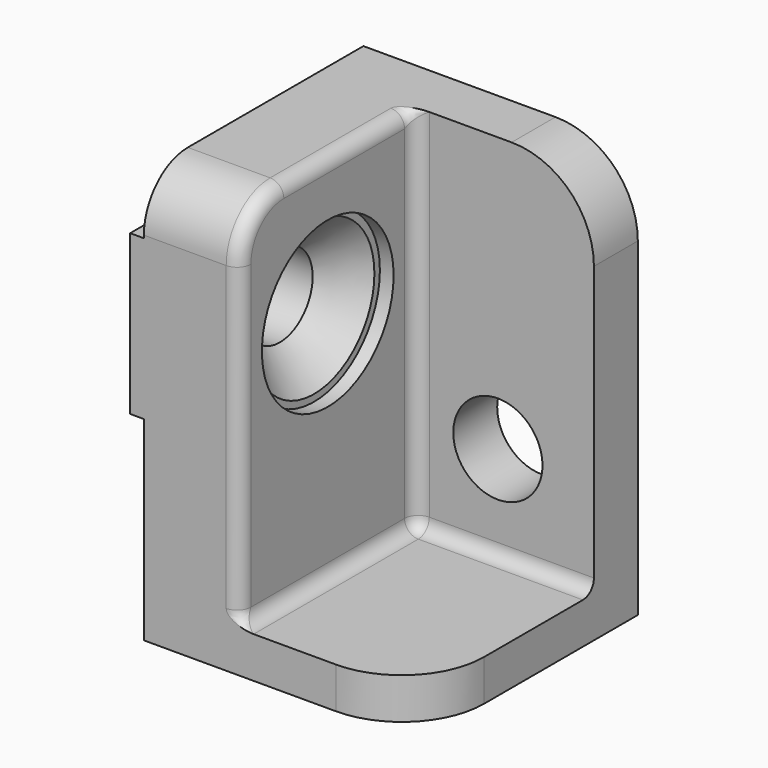
from build123d import *

# Parameters (mm, degrees)
SKETCH_W        = 20
SKETCH_H        = 20
PAD_DEPTH       = 30
PAD001_DEPTH    = 20
SKETCH002_W     = 13
SKETCH002_H     = 16
POCKET_DEPTH    = 27
SKETCH003_R     = 3
POCKET001_DEPTH = 8.001
SKETCH004_R     = 6
POCKET002_DEPTH = 1
CHAMFER_SIZE    = 2.5
FILLET_R        = 4
FILLET001_R     = 1
FILLET002_R     = 6
SKETCH005_R     = 3.25
POCKET003_DEPTH = 5


with BuildPart() as part:
    # Sketch → Pad (new body)
    with BuildSketch(Plane.XY):
        Rectangle(SKETCH_W, SKETCH_H)
    extrude(amount=PAD_DEPTH)

    # Sketch001 (on Face1 of Pad) → Pad001 (join)
    with BuildSketch(Plane(origin=(0, 10, 0), x_dir=(-1, 0, 0), z_dir=(0, 1, 0))):
        Polygon((10, 25.8), (10, 20), (10, 14.2), (11, 14.2), (11, 25.8), align=None)
    extrude(amount=-PAD001_DEPTH)

    # Sketch002 (on Face7 of Pad001) → Pocket (cut)
    with BuildSketch(Plane.XY.offset(30)):
        with Locations((3.5, -2)):
            Rectangle(SKETCH002_W, SKETCH002_H)
    extrude(amount=-POCKET_DEPTH, mode=Mode.SUBTRACT)

    # Sketch003 (on Face12 of Pocket) → Pocket001 (cut, through all)
    with BuildSketch(Plane.YZ.offset(-3)):
        with Locations((-2, 20)):
            Circle(SKETCH003_R)
    extrude(amount=-POCKET001_DEPTH, mode=Mode.SUBTRACT)

    # Sketch004 (on Face12 of Pocket001) → Pocket002 (cut)
    with BuildSketch(Plane.YZ.offset(-3)):
        with Locations((-2, 20)):
            Circle(SKETCH004_R)
    extrude(amount=-POCKET002_DEPTH, mode=Mode.SUBTRACT)

    # Chamfer
    chamfer_edges = [part.edges().sort_by_distance(p)[0] for p in [
        (-4, -5, 20),
    ]]
    chamfer(chamfer_edges, length=CHAMFER_SIZE)

    # Fillet
    fillet_edges = [part.edges().sort_by_distance(p)[0] for p in [
        (-6.5, -10, 30),
    ]]
    fillet(fillet_edges, radius=FILLET_R)

    # Fillet001
    fillet001_edges = [part.edges().sort_by_distance(p)[0] for p in [
        (-3, -10, 14.5),
        (-3, 6, 16.5),
        (-3, -2, 3),
        (3.5, 6, 3),
    ]]
    fillet(fillet001_edges, radius=FILLET001_R)

    # Fillet002
    fillet002_edges = [part.edges().sort_by_distance(p)[0] for p in [
        (10, -10, 1.5),
        (10, 8, 30),
    ]]
    fillet(fillet002_edges, radius=FILLET002_R)

    # Sketch005 (on Face2 of Fillet002) → Pocket003 (cut)
    with BuildSketch(Plane(origin=(0, 10, 0), x_dir=(-1, 0, 0), z_dir=(0, 1, 0))):
        with Locations((-3, 10)):
            Circle(SKETCH005_R)
    extrude(amount=-POCKET003_DEPTH, mode=Mode.SUBTRACT)


solid = part.part
